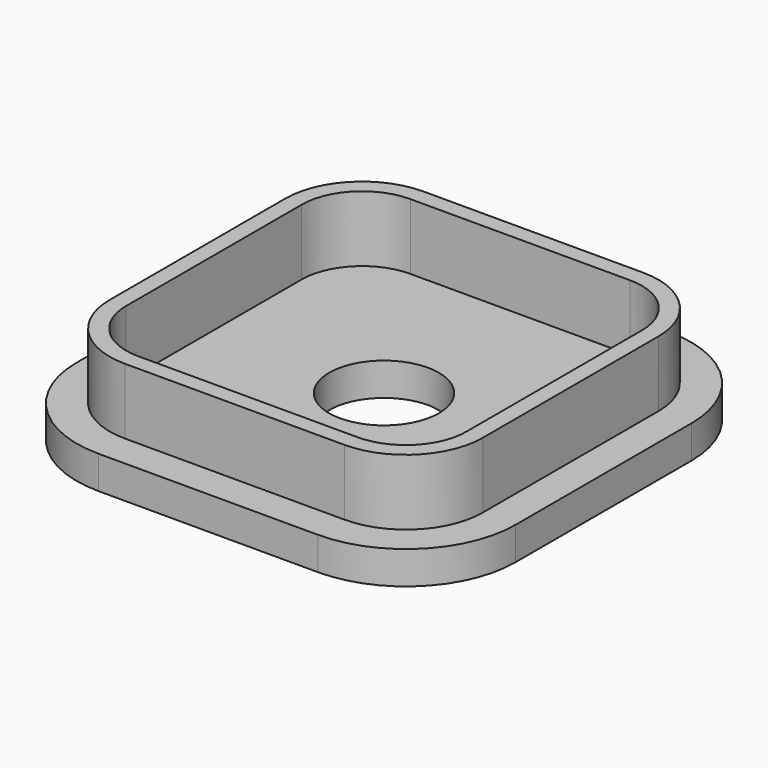
from build123d import *

# Parameters (mm, degrees)
F0_R     = 5
F1_DEPTH = 3
F3_DEPTH = 6


with BuildPart() as f1:
    # F0 (on Top) → F1 (new body)
    with BuildSketch(Plane.XY):
        with BuildLine():
            ThreePointArc((20, 10), (17.071068, 17.071068), (10, 20))
            Line((10, 20), (-10, 20))
            ThreePointArc((-10, 20), (-17.071068, 17.071068), (-20, 10))
            Line((-20, 10), (-20, -10))
            ThreePointArc((-20, -10), (-17.071068, -17.071068), (-10, -20))
            Line((-10, -20), (10, -20))
            ThreePointArc((10, -20), (17.071068, -17.071068), (20, -10))
            Line((20, -10), (20, 10))
        make_face()
        Circle(F0_R, mode=Mode.SUBTRACT)
    extrude(amount=F1_DEPTH)

    # F2 (on face) → F3 (join)
    with BuildSketch(Plane.XY.offset(3)):
        with BuildLine():
            ThreePointArc((17, 10), (14.949747, 14.949747), (10, 17))
            Line((10, 17), (-10, 17))
            ThreePointArc((-10, 17), (-14.949747, 14.949747), (-17, 10))
            Line((-17, 10), (-17, -10))
            ThreePointArc((-17, -10), (-14.949747, -14.949747), (-10, -17))
            Line((-10, -17), (10, -17))
            ThreePointArc((10, -17), (14.949747, -14.949747), (17, -10))
            Line((17, -10), (17, 10))
        make_face()
        with BuildLine():
            Line((-10, 15.5), (10, 15.5))
            ThreePointArc((10, 15.5), (13.889087, 13.889087), (15.5, 10))
            Line((15.5, 10), (15.5, -10))
            ThreePointArc((15.5, -10), (13.889087, -13.889087), (10, -15.5))
            Line((10, -15.5), (-10, -15.5))
            ThreePointArc((-10, -15.5), (-13.889087, -13.889087), (-15.5, -10))
            Line((-15.5, -10), (-15.5, 10))
            ThreePointArc((-15.5, 10), (-13.889087, 13.889087), (-10, 15.5))
        make_face(mode=Mode.SUBTRACT)
    extrude(amount=F3_DEPTH)


solid = f1.part
